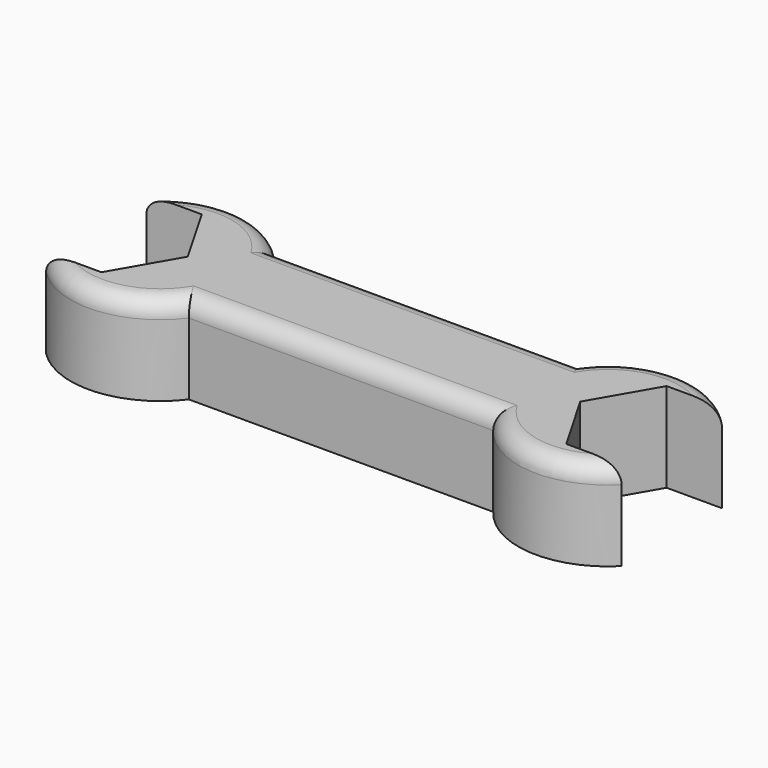
from build123d import *

# Parameters (mm, degrees)
F1_DEPTH = 6.35
F3_DEPTH = 12.701
F6_R     = 2.54


with BuildPart() as f1:
    # F0 (on Top) → F1 (new body, symmetric)
    with BuildSketch(Plane.XY):
        with BuildLine():
            Line((21.59, 7.62), (-21.59, 7.62))
            ThreePointArc((-21.59, 7.62), (-44.45, 0), (-21.59, -7.62))
            Line((-21.59, -7.62), (21.59, -7.62))
            ThreePointArc((21.59, -7.62), (44.45, 0), (21.59, 7.62))
        make_face()
    extrude(amount=F1_DEPTH, both=True)

    # F4: F3 across plane


with BuildPart() as f3:
    # F2 (on face) → F3 (new body, through all)
    with BuildSketch(Plane.XY.offset(6.35)):
        Polygon((-48.365288, 0), (-43.232644, -8.89), (-32.967356, -8.89), (-27.834712, 0), (-32.967356, 8.89), (-43.232644, 8.89), align=None)
    extrude(amount=-F3_DEPTH)


with BuildPart() as f1_1:
    add(f1.part)
    add(f3.part.mirror(Plane.YZ), mode=Mode.SUBTRACT)

    # F5: cut F3
    add(f3.part, mode=Mode.SUBTRACT)

    # F6
    f6_edges = [f1_1.edges().sort_by_distance(p)[0] for p in [
        (0, -7.62, 6.35),
        (-30.913065, 12.672393, 6.35),
        (-30.913065, -12.672393, 6.35),
        (0, 7.62, 6.35),
        (30.913065, -12.672393, 6.35),
        (30.913065, 12.672393, 6.35),
    ]]
    fillet(f6_edges, radius=F6_R)


solid = f1_1.part
